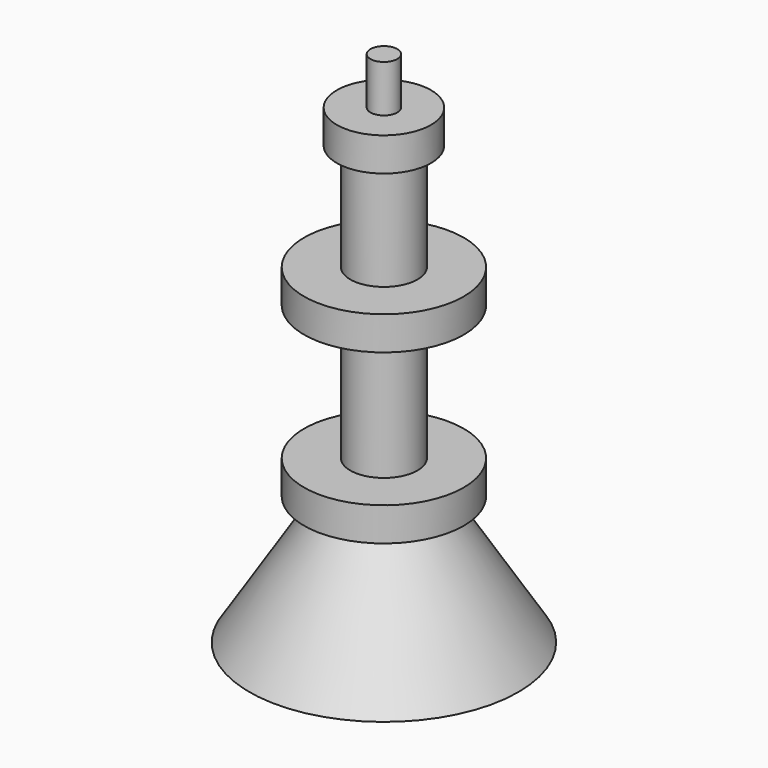
from build123d import *


with BuildPart() as f1:
    # F0 (on Front) → F1 (revolve)
    with BuildSketch(Plane.XZ):
        Polygon((0, 36.704396), (0, 0), (0, -52.195604), (25.4, -52.195604), (10.048355, -27.912087), (15.072527, -27.912087), (15.072527, -21.562087), (6.35, -21.562087), (6.35, 3.837913), (15.072527, 3.837913), (15.072527, 10.187913), (6.35, 10.187913), (6.35, 30.354396), (8.89, 30.354396), (8.89, 36.704396), (6.35, 36.704396), (2.54, 36.704396), (2.54, 45.594396), (0, 45.594396), align=None)
    revolve(axis=Axis((0, 0, 18.352198), (0, 0, 1)))


solid = f1.part
